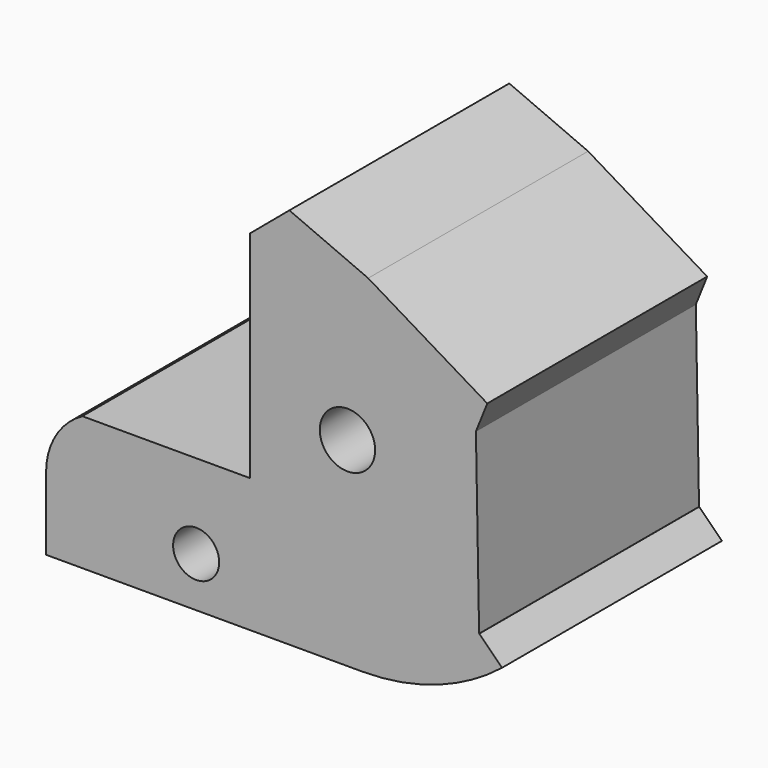
from build123d import *

# Parameters (mm, degrees)
F0_R     = 6.386329
F0_R_2   = 7.669861
F1_DEPTH = 76.2


with BuildPart() as f1:
    # F0 (on Front) → F1 (new body)
    with BuildSketch(Plane.XZ):
        with BuildLine():
            Line((-59.575226, -25.464874), (-59.575226, -46.214029))
            Line((-59.575226, -46.214029), (0, -46.214029))
            Line((0, -46.214029), (0, -14.775913))
            Line((0, -14.775913), (-10.846913, -14.775913))
            Line((-10.846913, -14.775913), (-51.715698, -14.775913))
            ThreePointArc((-51.715698, -14.775913), (-57.398857, -18.831133), (-59.575226, -25.464874))
        make_face()
        with Locations((-25.837737, -32.445498)):
            Circle(F0_R, mode=Mode.SUBTRACT)
        with BuildLine():
            Line((-67.434758, -46.214029), (-59.575226, -46.214029))
            Line((-59.575226, -46.214029), (-59.575226, -25.464874))
            ThreePointArc((-59.575226, -25.464874), (-57.398857, -18.831133), (-51.715698, -14.775913))
            Line((-51.715698, -14.775913), (-10.846913, -14.775913))
            Line((-10.846913, -14.775913), (-10.846913, -9.121778))
            Line((-10.846913, -9.121778), (-57.374559, -9.121778))
            ThreePointArc((-57.374559, -9.121778), (-64.731001, -16.236777), (-67.434758, -26.107447))
            Line((-67.434758, -26.107447), (-67.434758, -46.214029))
        make_face()
        Polygon((-10.846913, -14.775913), (0, -14.775913), (9.588626, -14.775913), (21.832943, -26.408015), (44.932198, -17.93753), (44.932198, 22.635443), (12.734826, 42.775784), (-10.846913, 50.652135), (-10.846913, -9.121778), align=None)
        with Locations((16.108637, 8.963856)):
            Circle(F0_R_2, mode=Mode.SUBTRACT)
        with BuildLine():
            Line((0, -14.775913), (0, -46.214029))
            Line((0, -46.214029), (20.277588, -46.214029))
            ThreePointArc((20.277588, -46.214029), (31.173466, -45.250121), (41.730902, -42.388338))
            ThreePointArc((41.730902, -42.388338), (37.981593, -41.004981), (34.739118, -38.668882))
            Line((34.739118, -38.668882), (30.417925, -34.563749))
            Line((30.417925, -34.563749), (21.832943, -26.408015))
            Line((21.832943, -26.408015), (9.588626, -14.775913))
            Line((9.588626, -14.775913), (0, -14.775913))
        make_face()
        with BuildLine():
            ThreePointArc((34.739118, -38.668882), (37.981593, -41.004981), (41.730902, -42.388338))
            ThreePointArc((41.730902, -42.388338), (50.726835, -38.231397), (58.946468, -32.69564))
            Line((58.946468, -32.69564), (52.658845, -26.408015))
            Line((52.658845, -26.408015), (52.602403, -26.428712))
            Line((52.602403, -26.428712), (30.417925, -34.563749))
            Line((30.417925, -34.563749), (34.739118, -38.668882))
        make_face()
        Polygon((44.932198, -17.93753), (21.832943, -26.408015), (30.417925, -34.563749), (52.602403, -26.428712), (51.715698, 22.635443), (44.932198, 22.635443), align=None)
        Polygon((21.853101, 50.320085), (12.734826, 42.775784), (44.932198, 22.635443), (51.715698, 22.635443), (54.86754, 30.485805), align=None)
        Polygon((0, 59.769187), (-10.846913, 50.652135), (12.734826, 42.775784), (21.853101, 50.320085), align=None)
    extrude(amount=F1_DEPTH)


solid = f1.part
